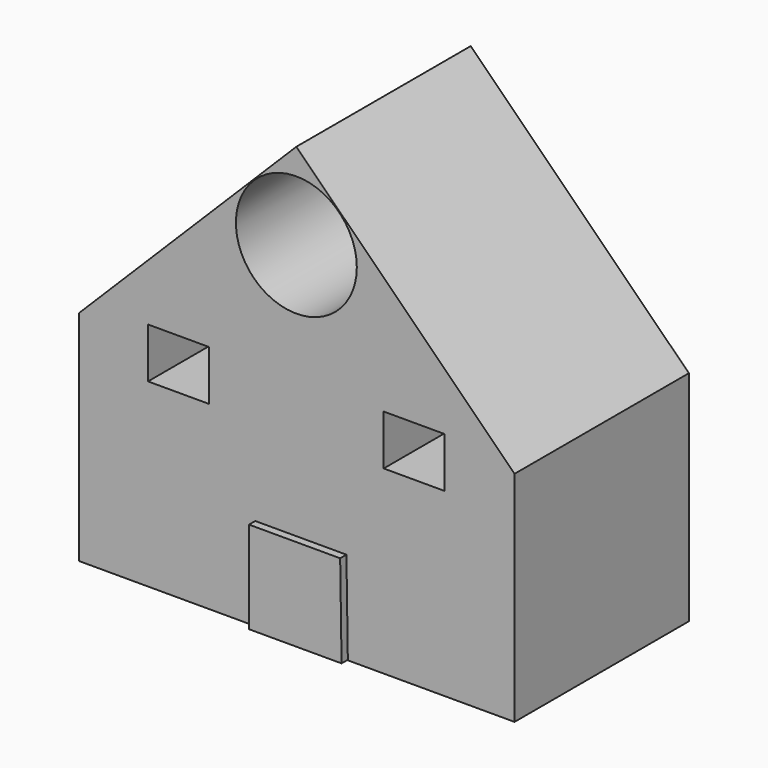
from build123d import *

# Parameters (mm, degrees)
F1_DEPTH = 76.2
F3_DEPTH = 78.93746
F4_W     = 10.663852
F4_H     = 8.762545
F5_DEPTH = 80.45524
F6_R     = 21.143911
F7_DEPTH = 84.04915


with BuildPart() as f1:
    # F0 (on Front) → F1 (new body)
    with BuildSketch(Plane.XZ):
        Polygon((76.294363, 0), (0, 75.881518), (-75.964086, 0), (-75.964086, -76.376937), (76.294363, -76.376937), align=None)
    extrude(amount=F1_DEPTH)

    # F2 (on Front) → F3 (join)
    with BuildSketch(Plane.XZ):
        Polygon((18.000185, -76.211795), (17.50477, -44.009626), (-14.367121, -44.009626), (-14.367121, -76.211795), align=None)
    extrude(amount=F3_DEPTH)

    # F4 (on Front) → F5 (cut)
    with BuildSketch(Plane.XZ):
        with Locations((-46.53484, -0.088469)):
            Rectangle(F4_W, F4_H)
        with Locations((-35.870988, -0.088469)):
            Rectangle(F4_W, F4_H)
        with Locations((-46.53484, -8.851014)):
            Rectangle(F4_W, F4_H)
        with Locations((-35.870988, -8.851014)):
            Rectangle(F4_W, F4_H)
        with Locations((46.53484, -0.088469)):
            Rectangle(F4_W, F4_H)
        with Locations((46.53484, -8.851014)):
            Rectangle(F4_W, F4_H)
        with Locations((35.870988, -0.088469)):
            Rectangle(F4_W, F4_H)
        with Locations((35.870988, -8.851014)):
            Rectangle(F4_W, F4_H)
    extrude(amount=F5_DEPTH, mode=Mode.SUBTRACT)

    # F6 (on Front) → F7 (cut)
    with BuildSketch(Plane.XZ):
        with Locations((0, 45.625564)):
            Circle(F6_R)
    extrude(amount=F7_DEPTH, mode=Mode.SUBTRACT)


solid = f1.part
